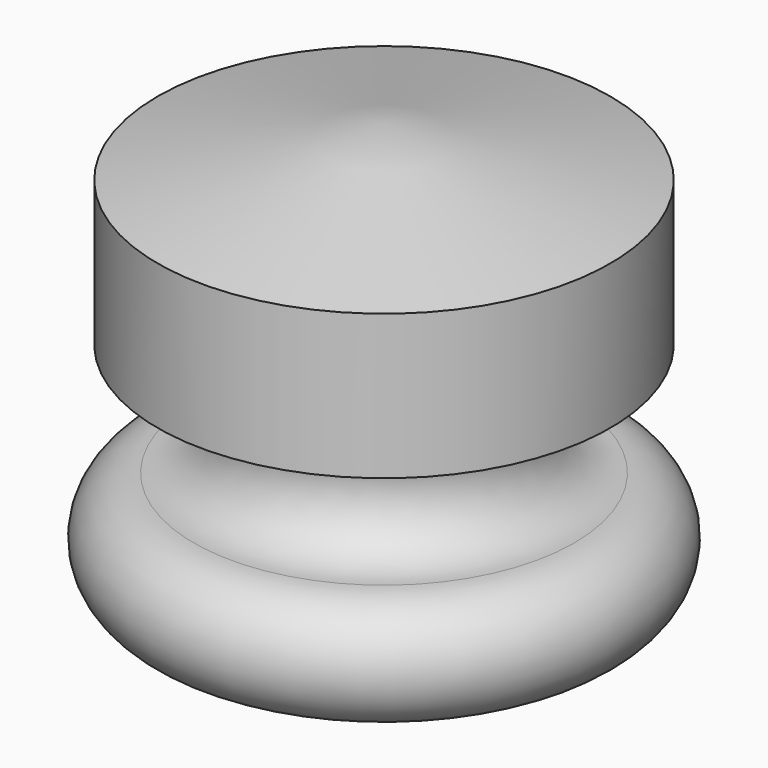
from build123d import *

# Parameters (mm, degrees)
F2_R     = 1.18745
F3_DEPTH = 4.572


with BuildPart() as f1:
    # F0 (on Front) → F1 (revolve)
    with BuildSketch(Plane.XZ):
        with BuildLine():
            Line((0, -4.203269), (0, 1.689531))
            Line((0, 1.689531), (-3.175, 1.001874))
            Line((-3.175, 1.001874), (-3.175, -1.030126))
            Line((-3.175, -1.030126), (-2.667, -1.030126))
            ThreePointArc((-2.667, -1.030126), (-1.834871, -1.822947), (-2.667, -2.615769))
            ThreePointArc((-2.667, -2.615769), (-3.46075, -3.409519), (-2.667, -4.203269))
            Line((-2.667, -4.203269), (0, -4.203269))
        make_face()
    revolve(axis=Axis((0, 0, 0.38379), (0, 0, -1)))

    # F2 (on face) → F3 (cut)
    with BuildSketch(Plane(origin=(0, 0, -4.203269), x_dir=(1, 0, 0), z_dir=(0, 0, -1))):
        Circle(F2_R)
    extrude(amount=-F3_DEPTH, mode=Mode.SUBTRACT)


solid = f1.part
